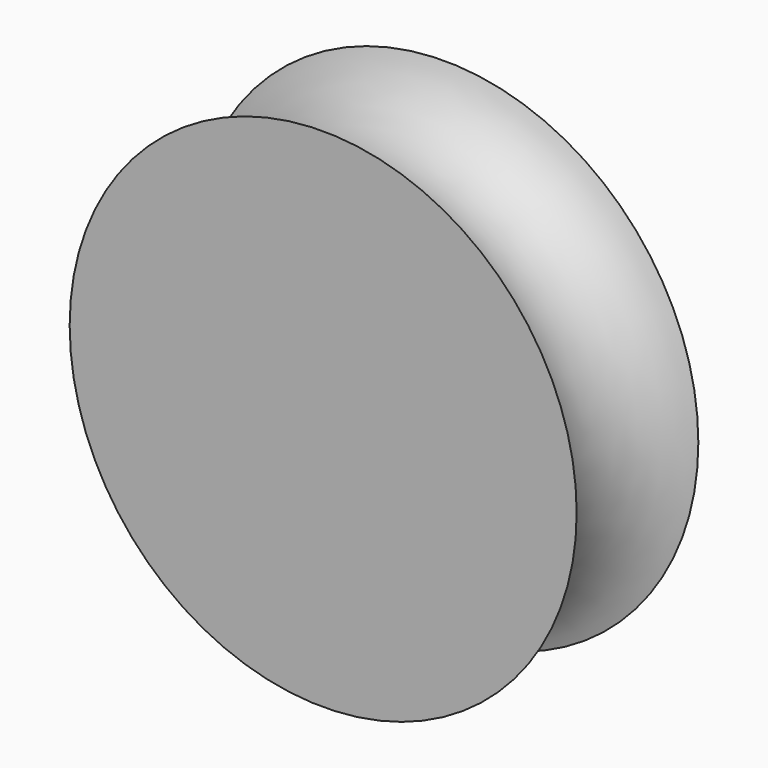
from build123d import *


with BuildPart() as f1:
    # F0 (on Top) → F1 (revolve)
    with BuildSketch(Plane.XY):
        with BuildLine():
            Line((25.05815, 7.258434), (0.05815, 7.258434))
            Line((0.05815, 7.258434), (0.05815, -7.741566))
            Line((0.05815, -7.741566), (25.05815, -7.741566))
            ThreePointArc((25.05815, -7.741566), (19.449843, -0.241566), (25.05815, 7.258434))
        make_face()
    revolve(axis=Axis((0.05815, -0.241566, 0), (0, -1, 0)))


solid = f1.part
